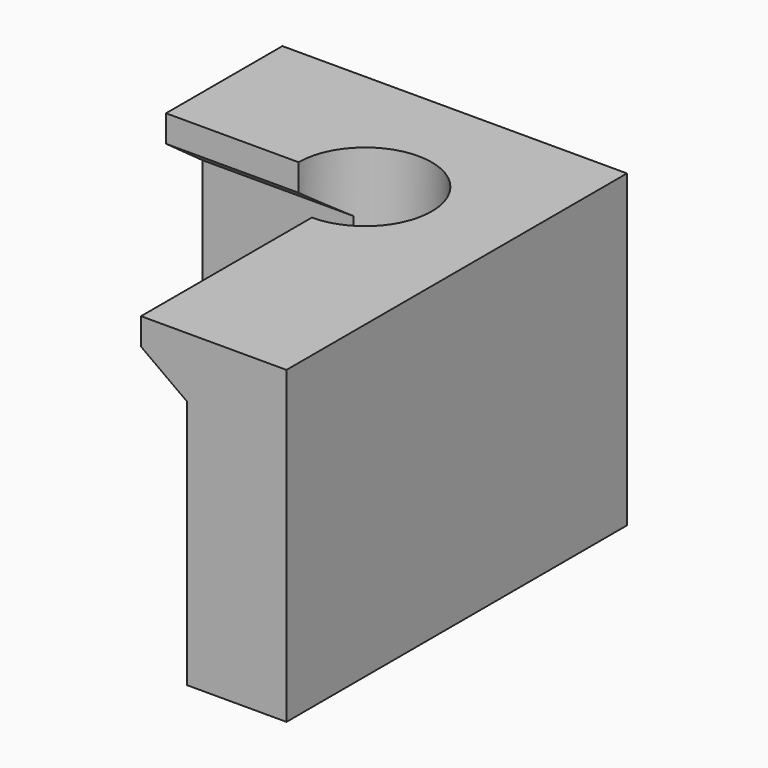
from build123d import *

# Parameters (mm, degrees)
F3_R     = 2.8871491502
F4_DEPTH = 25


with BuildPart() as f2:
    # F2: sweep along a path in F1
    with BuildLine(Plane.XY) as f2_path:
        Line((10.6192948297, 0), (10.6192948297, 14.1305187717))
        Line((10.6192948297, 14.1305187717), (0, 14.1305187717))
    # F0 (on Front) → F2 (sweep)
    with BuildSketch(Plane.XZ):
        Polygon((10.6192948297, 10.8289821073), (10.6192948297, 0), (14.9371791631, 0), (14.9371791631, 13.4334210306), (8.6316959932, 13.4334210306), (8.6316959932, 12.2682768852), align=None)
    sweep(path=f2_path.line, transition=Transition.RIGHT)

    # F3 (on face) → F4 (cut)
    with BuildSketch(Plane.XY.offset(13.4334210306)):
        with Locations((8.6316959932, 12.1429199353)):
            Circle(F3_R)
    extrude(amount=-F4_DEPTH, mode=Mode.SUBTRACT)


solid = f2.part
